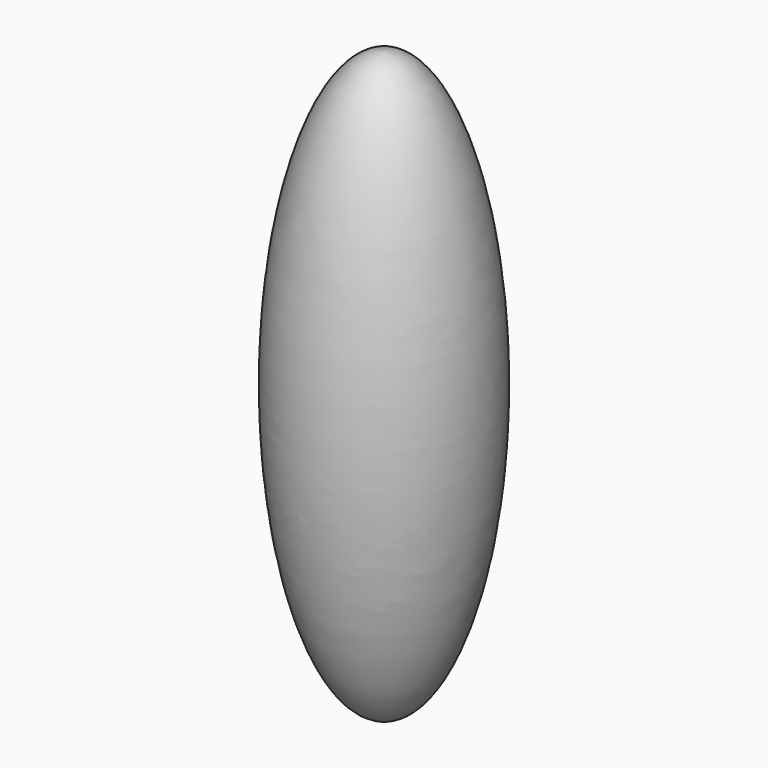
from build123d import *


with BuildPart() as f1:
    # F0 (on Front) → F1 (revolve)
    with BuildSketch(Plane.XZ):
        with BuildLine():
            add(Edge.make_bspline(
                [(76.2, 0), (76.2, 228.6), (0, 228.6)],
                knots=[4.7123889804, 4.7123889804, 4.7123889804, 6.2831853072, 6.2831853072, 6.2831853072], degree=2, weights=[1, 0.7071067812, 1]))
            Line((0, 228.6), (0, 0))
            Line((0, 0), (76.2, 0))
        make_face()
        with BuildLine():
            add(Edge.make_bspline(
                [(0, -228.6), (76.2, -228.6), (76.2, 0)],
                knots=[3.1415926536, 3.1415926536, 3.1415926536, 4.7123889804, 4.7123889804, 4.7123889804], degree=2, weights=[1, 0.7071067812, 1]))
            Line((76.2, 0), (0, 0))
            Line((0, 0), (0, -228.6))
        make_face()
    revolve(axis=Axis((0, 0, 0), (0, 0, -1)))


solid = f1.part
